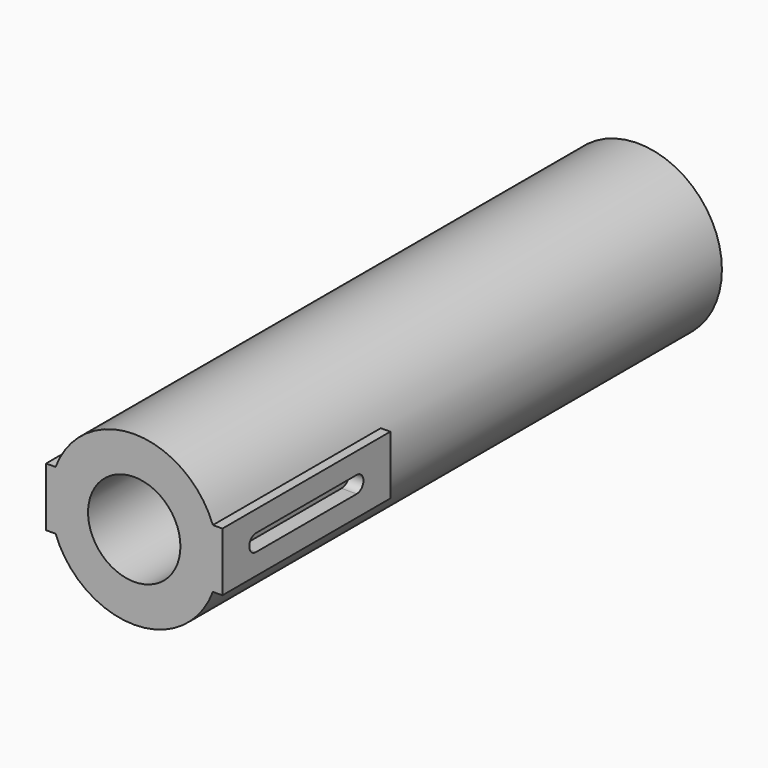
from build123d import *

# Parameters (mm, degrees)
F0_R     = 20
F0_R_2   = 17.5
F1_DEPTH = 150
F2_W     = 2.265006
F2_H     = 14
F3_DEPTH = 50
F5_DEPTH = 42.001
F6_R     = 17.5
F6_R_2   = 11
F7_DEPTH = 50


with BuildPart() as f1:
    # F0 (on Front) → F1 (new body)
    with BuildSketch(Plane.XZ):
        Circle(F0_R)
        Circle(F0_R_2, mode=Mode.SUBTRACT)
    extrude(amount=F1_DEPTH)

    # F2 (on face) → F3 (join)
    with BuildSketch(Plane.XZ.offset(150)):
        with Locations((-19.867497, 0)):
            Rectangle(F2_W, F2_H)
        with Locations((19.867497, 0)):
            Rectangle(F2_W, F2_H)
    extrude(amount=-F3_DEPTH)

    # F4 (on face) → F5 (cut, through all)
    with BuildSketch(Plane(origin=(-21, 0, 0), x_dir=(0, -1, 0), z_dir=(-1, 0, 0))):
        with BuildLine():
            ThreePointArc((110, 2), (108, 0), (110, -2))
            Line((110, -2), (140, -2))
            ThreePointArc((140, -2), (142, 0), (140, 2))
            Line((140, 2), (110, 2))
        make_face()
    extrude(amount=-F5_DEPTH, mode=Mode.SUBTRACT)

    # F6 (on face) → F7 (join)
    with BuildSketch(Plane.XZ.offset(150)):
        Circle(F6_R)
        Circle(F6_R_2, mode=Mode.SUBTRACT)
    extrude(amount=-F7_DEPTH)


solid = f1.part
